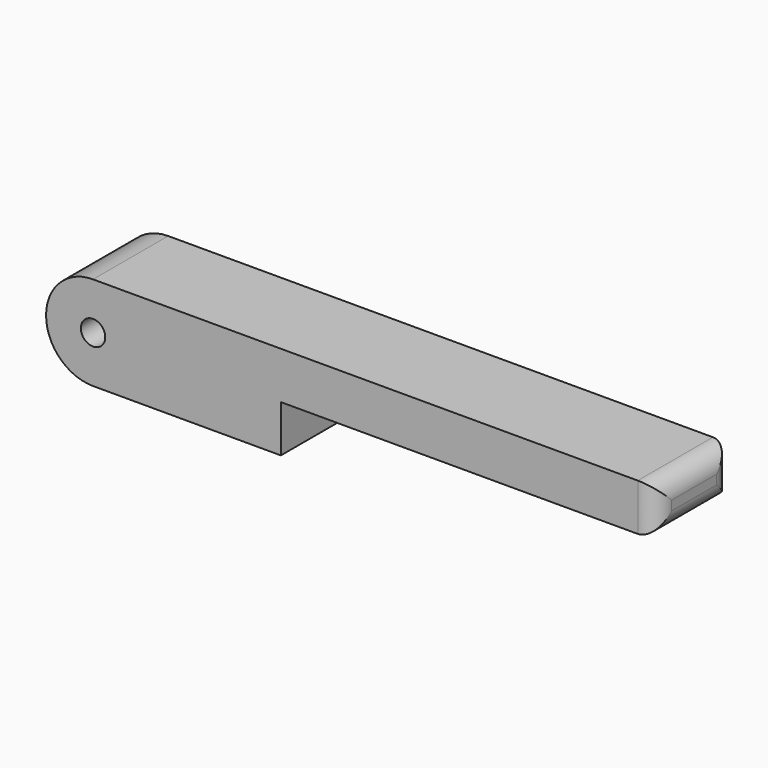
from build123d import *

# Parameters (mm, degrees)
F1_DEPTH       = 12.7
F3_D           = 3.3
F3_CBORE_D     = 6.5
F3_CBORE_DEPTH = 0
F4_R           = 2.54


with BuildPart() as f1:
    # F0 (on Front) → F1 (new body)
    with BuildSketch(Plane.XZ):
        with BuildLine():
            ThreePointArc((0, 12.7), (-6.35, 6.35), (0, 0))
            Line((0, 0), (25.4, 0))
            Line((25.4, 0), (25.4, 6.35))
            Line((25.4, 6.35), (76.2, 6.35))
            Line((76.2, 6.35), (76.2, 12.7))
            Line((76.2, 12.7), (19.05, 12.7))
            Line((19.05, 12.7), (0, 12.7))
        make_face()
    extrude(amount=F1_DEPTH)

    # F3 (through all)
    with Locations(Plane.XZ.offset(12.7)):
        with Locations((0, 6.35)):
            CounterBoreHole(F3_D / 2, F3_CBORE_D / 2, F3_CBORE_DEPTH)

    # F4
    f4_edges = [f1.edges().sort_by_distance(p)[0] for p in [
        (76.2, -12.7, 9.525),
        (76.2, -6.35, 6.35),
        (76.2, -6.35, 12.7),
        (76.2, 0, 9.525),
    ]]
    fillet(f4_edges, radius=F4_R)


solid = f1.part
